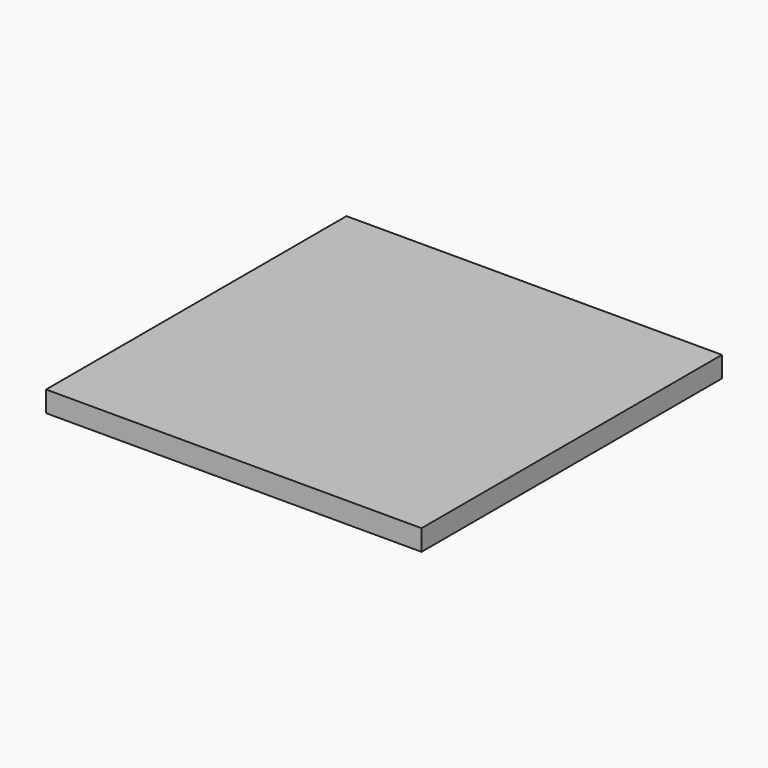
from build123d import *

# Parameters (mm, degrees)
F0_W     = 914.4
F0_H     = 914.4
F1_DEPTH = 50.8
F2_R     = 6.35
F3_DEPTH = 25.4


with BuildPart() as f1:
    # F0 (on Top) → F1 (new body)
    with BuildSketch(Plane.XY):
        Rectangle(F0_W, F0_H)
    extrude(amount=F1_DEPTH)

    # F2 (on Top) → F3 (cut)
    with BuildSketch(Plane.XY):
        with Locations((-431.8, -431.8)):
            Circle(F2_R)
        with Locations((431.8, -431.8)):
            Circle(F2_R)
        with Locations((431.8, 431.8)):
            Circle(F2_R)
        with Locations((-431.8, 431.8)):
            Circle(F2_R)
    extrude(amount=F3_DEPTH, mode=Mode.SUBTRACT)


solid = f1.part
